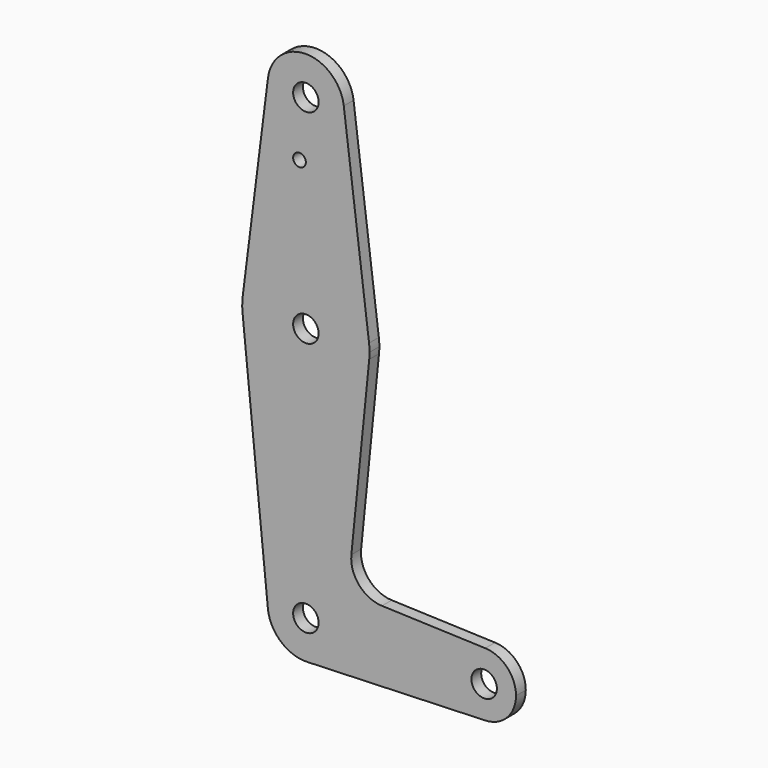
from build123d import *

# Parameters (mm, degrees)
F0_R     = 1.5875
F0_R_2   = 3.175
F1_DEPTH = 3.048


with BuildPart() as f1:
    # F0 (on Front) → F1 (new body)
    with BuildSketch(Plane.XZ):
        with BuildLine():
            ThreePointArc((-45.230135, 99.853657), (-45.174123, 99.259515), (-45.155428, 98.663032))
            ThreePointArc((-45.155428, 98.663032), (-55.276911, 89.156727), (-64.130721, 99.853657))
            Line((-64.130721, 99.853657), (-70.430917, 49.847407))
            ThreePointArc((-70.430917, 49.847407), (-54.680428, 63.738032), (-38.92994, 49.847407))
            Line((-38.92994, 49.847407), (-45.230135, 99.853657))
        make_face()
        with Locations((-56.267928, 84.388232)):
            Circle(F0_R, mode=Mode.SUBTRACT)
        with BuildLine():
            ThreePointArc((-38.885003, 46.275532), (-54.680428, 31.988032), (-70.475854, 46.275532))
            Line((-70.475854, 46.275532), (-64.157684, -16.589468))
            ThreePointArc((-64.157684, -16.589468), (-55.157276, -6.123912), (-45.155428, -15.636968))
            ThreePointArc((-45.155428, -15.636968), (-47.82602, -22.250796), (-54.34025, -25.155892))
            Line((-54.34025, -25.155892), (-9.946946, -23.569404))
            ThreePointArc((-9.946946, -23.569404), (-18.167928, -15.636968), (-9.946946, -7.704532))
            Line((-9.946946, -7.704532), (-35.712828, -6.783734))
            ThreePointArc((-35.712828, -6.783734), (-41.419228, -4.065609), (-43.339242, 1.956414))
            Line((-43.339242, 1.956414), (-38.885003, 46.275532))
        make_face()
        with BuildLine():
            ThreePointArc((-64.130721, 99.853657), (-55.276911, 89.156727), (-45.155428, 98.663032))
            ThreePointArc((-45.155428, 98.663032), (-45.174123, 99.259515), (-45.230135, 99.853657))
            ThreePointArc((-45.230135, 99.853657), (-54.680428, 108.188032), (-64.130721, 99.853657))
        make_face()
        with Locations((-54.680428, 98.663032)):
            Circle(F0_R_2, mode=Mode.SUBTRACT)
        with BuildLine():
            ThreePointArc((-38.805428, 47.863032), (-38.836587, 48.857171), (-38.92994, 49.847407))
            ThreePointArc((-38.92994, 49.847407), (-54.680428, 63.738032), (-70.430917, 49.847407))
            ThreePointArc((-70.430917, 49.847407), (-70.554172, 48.062737), (-70.475854, 46.275532))
            ThreePointArc((-70.475854, 46.275532), (-54.680428, 31.988032), (-38.885003, 46.275532))
            ThreePointArc((-38.885003, 46.275532), (-38.825334, 47.068285), (-38.805428, 47.863032))
        make_face()
        with Locations((-54.680428, 47.863032)):
            Circle(F0_R_2, mode=Mode.SUBTRACT)
        with BuildLine():
            ThreePointArc((-45.155428, -15.636968), (-55.157276, -6.123912), (-64.157684, -16.589468))
            ThreePointArc((-64.157684, -16.589468), (-60.942812, -22.813888), (-54.34025, -25.155892))
            ThreePointArc((-54.34025, -25.155892), (-47.82602, -22.250796), (-45.155428, -15.636968))
        make_face()
        with Locations((-54.680428, -15.636968)):
            Circle(F0_R_2, mode=Mode.SUBTRACT)
        with BuildLine():
            ThreePointArc((-9.946946, -7.704532), (-18.167928, -15.636968), (-9.946946, -23.569404))
            ThreePointArc((-9.946946, -23.569404), (-4.518421, -21.148491), (-2.292928, -15.636968))
            ThreePointArc((-2.292928, -15.636968), (-4.518421, -10.125445), (-9.946946, -7.704532))
        make_face()
        with Locations((-10.230428, -15.636968)):
            Circle(F0_R_2, mode=Mode.SUBTRACT)
    extrude(amount=F1_DEPTH)


solid = f1.part
